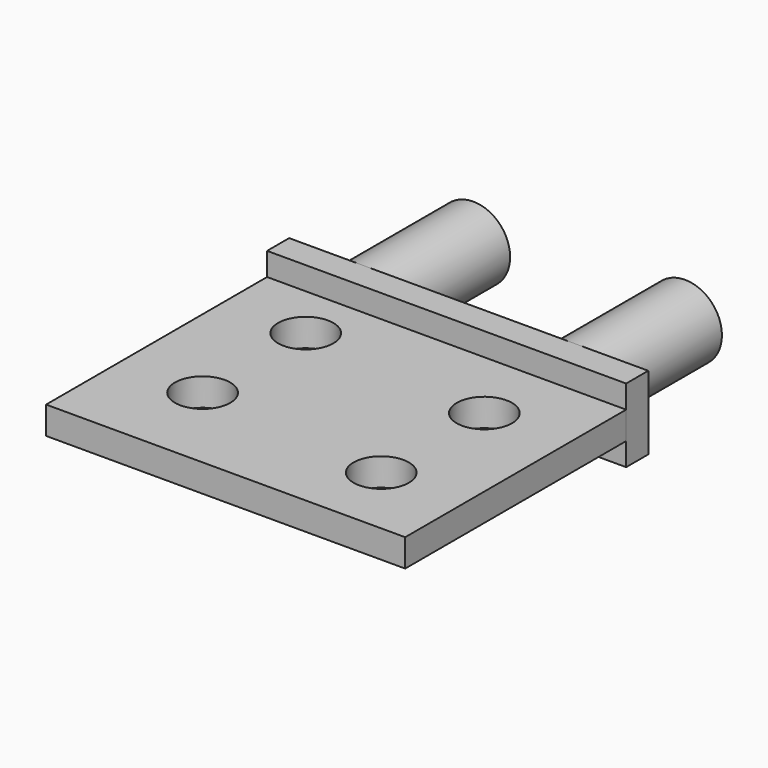
from build123d import *

# Parameters (mm, degrees)
BOX_W                  = 39
BOX_H                  = 3
BOX_DEPTH              = 8
CYLINDER_R             = 4
CYLINDER_DEPTH         = 15
CYLINDER_ROLL_ANGLE    = 90
CYLINDER001_R          = 4
CYLINDER001_DEPTH      = 15
CYLINDER001_ROLL_ANGLE = 90
CYLINDER004_R          = 3
CYLINDER004_DEPTH      = 3
CYLINDER003_R          = 3
CYLINDER003_DEPTH      = 3
CYLINDER002_R          = 3
CYLINDER002_DEPTH      = 3
CYLINDER005_R          = 3
CYLINDER005_DEPTH      = 3
BOX001_W               = 39
BOX001_H               = 30
BOX001_DEPTH           = 3


with BuildPart() as base:
    # Box → Box (new body)
    with BuildSketch(Plane(origin=(-8, -18, -4), x_dir=(1, 0, 0), z_dir=(0, 0, 1))):
        with Locations((19.5, 1.5)):
            Rectangle(BOX_W, BOX_H)
    extrude(amount=BOX_DEPTH)


with BuildPart() as pin2:
    # Cylinder → Cylinder (new body)
    with BuildSketch(Plane.XY):
        Circle(CYLINDER_R)
    extrude(amount=CYLINDER_DEPTH)


with BuildPart() as pin2_1:
    # Cylinder roll: moved
    add(pin2.part.rotate(Axis((0, 0, 0), (1, 0, 0)), CYLINDER_ROLL_ANGLE))


with BuildPart() as pin2_2:
    # Cylinder placement: moved
    add(pin2_1.part.moved(Location((23, 0, 0))))


with BuildPart() as pin1:
    # Cylinder001 → Cylinder001 (new body)
    with BuildSketch(Plane.XY):
        Circle(CYLINDER001_R)
    extrude(amount=CYLINDER001_DEPTH)


with BuildPart() as pin1_1:
    # Cylinder001 roll: moved
    add(pin1.part.rotate(Axis((0, 0, 0), (1, 0, 0)), CYLINDER001_ROLL_ANGLE))


with BuildPart() as pin1_2:
    # Cylinder001 placement: moved
    add(pin1_1.part)


with BuildPart() as cut3:
    # Cylinder004 → Cylinder004 (new body)
    with BuildSketch(Plane(origin=(1, -38, -1.5), x_dir=(1, 0, 0), z_dir=(0, 0, 1))):
        Circle(CYLINDER004_R)
    extrude(amount=CYLINDER004_DEPTH)


with BuildPart() as cut2:
    # Cylinder003 → Cylinder003 (new body)
    with BuildSketch(Plane(origin=(1, -24, -1.5), x_dir=(1, 0, 0), z_dir=(0, 0, 1))):
        Circle(CYLINDER003_R)
    extrude(amount=CYLINDER003_DEPTH)


with BuildPart() as cut1:
    # Cylinder002 → Cylinder002 (new body)
    with BuildSketch(Plane(origin=(22, -26, -1.5), x_dir=(1, 0, 0), z_dir=(0, 0, 1))):
        Circle(CYLINDER002_R)
    extrude(amount=CYLINDER002_DEPTH)


with BuildPart() as fusion:
    # Cylinder005 → Cylinder005 (new body)
    with BuildSketch(Plane(origin=(22, -40, -1.5), x_dir=(1, 0, 0), z_dir=(0, 0, 1))):
        Circle(CYLINDER005_R)
    extrude(amount=CYLINDER005_DEPTH)

    # Fusion: union Cut3, Cut2, Cut1
    add(cut3.part)
    add(cut2.part)
    add(cut1.part)


with BuildPart() as cut:
    # Box001 → Box001 (new body)
    with BuildSketch(Plane(origin=(-8, -48, -1.5), x_dir=(1, 0, 0), z_dir=(0, 0, 1))):
        with Locations((19.5, 15)):
            Rectangle(BOX001_W, BOX001_H)
    extrude(amount=BOX001_DEPTH)

    # Cut: cut Fusion
    add(fusion.part, mode=Mode.SUBTRACT)


solid = Compound([base.part, pin2_2.part, pin1_2.part, cut.part])
